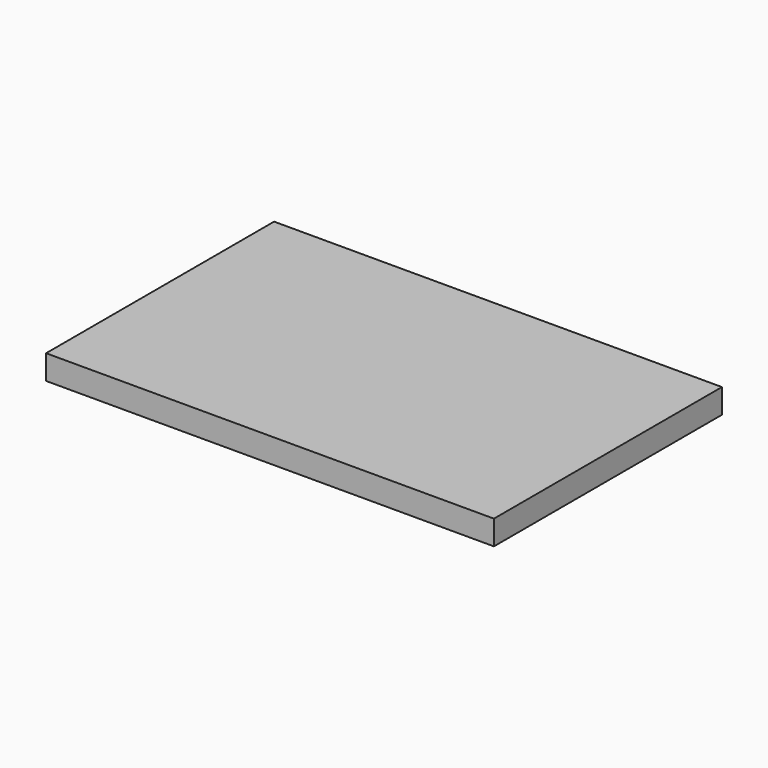
from build123d import *

# Parameters (mm, degrees)
F0_W     = 139.7
F0_H     = 88.9
F1_DEPTH = 7.62
F2_W     = 98.266498
F2_H     = 54.401896
F3_DEPTH = 7.62


with BuildPart() as f1:
    # F0 (on Top) → F1 (new body)
    with BuildSketch(Plane.XY):
        Rectangle(F0_W, F0_H)
    extrude(amount=F1_DEPTH)


with BuildPart() as f3:
    # F2 (on face) → F3 (new body)
    with BuildSketch(Plane(origin=(0, 0, 0), x_dir=(1, 0, 0), z_dir=(0, 0, -1))):
        Rectangle(F2_W, F2_H)
    extrude(amount=F3_DEPTH)


solid = Compound([f1.part, f3.part])
